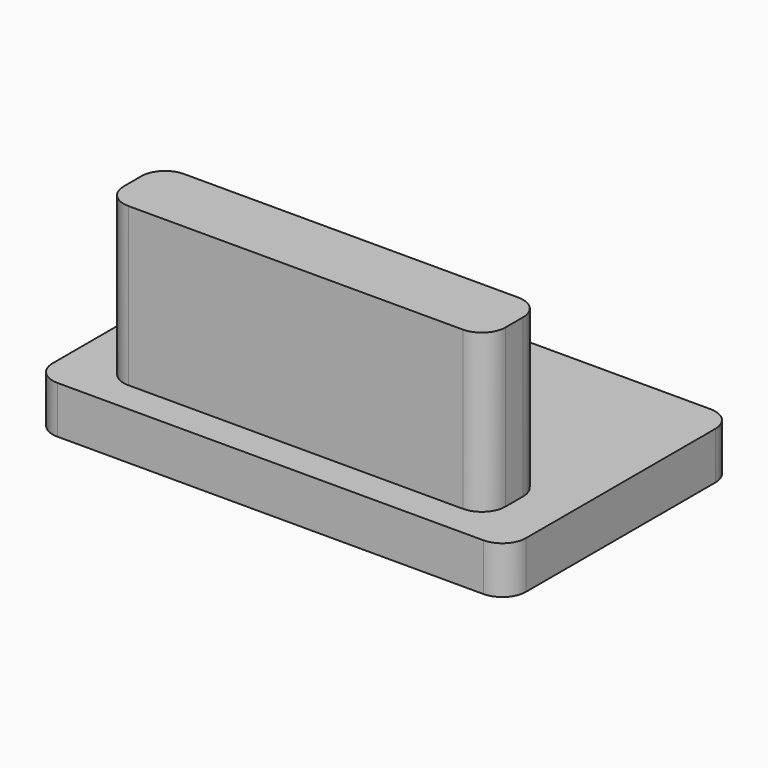
from build123d import *

# Parameters (mm, degrees)
F0_W     = 12.1
F0_H     = 2.2
F1_DEPTH = 5
F0_W_2   = 15
F0_H_2   = 9
F2_DEPTH = 1.5
F3_R     = 0.75


with BuildPart() as f1:
    # F0 (on Top) → F1 (new body)
    with BuildSketch(Plane.XY):
        Rectangle(F0_W, F0_H)
    extrude(amount=F1_DEPTH)

    # F0 (on Top) → F2 (join)
    with BuildSketch(Plane.XY):
        with Locations((0, 2.4)):
            Rectangle(F0_W_2, F0_H_2)
        Rectangle(F0_W, F0_H, mode=Mode.SUBTRACT)
        Rectangle(F0_W, F0_H)
    extrude(amount=-F2_DEPTH)

    # F3
    f3_edges = [f1.edges().sort_by_distance(p)[0] for p in [
        (-6.05, 1.1, 2.5),
        (-6.05, -1.1, 2.5),
        (6.05, 1.1, 2.5),
        (6.05, -1.1, 2.5),
        (7.5, -2.1, -0.75),
        (7.5, 6.9, -0.75),
        (-7.5, 6.9, -0.75),
        (-7.5, -2.1, -0.75),
    ]]
    fillet(f3_edges, radius=F3_R)


solid = f1.part
